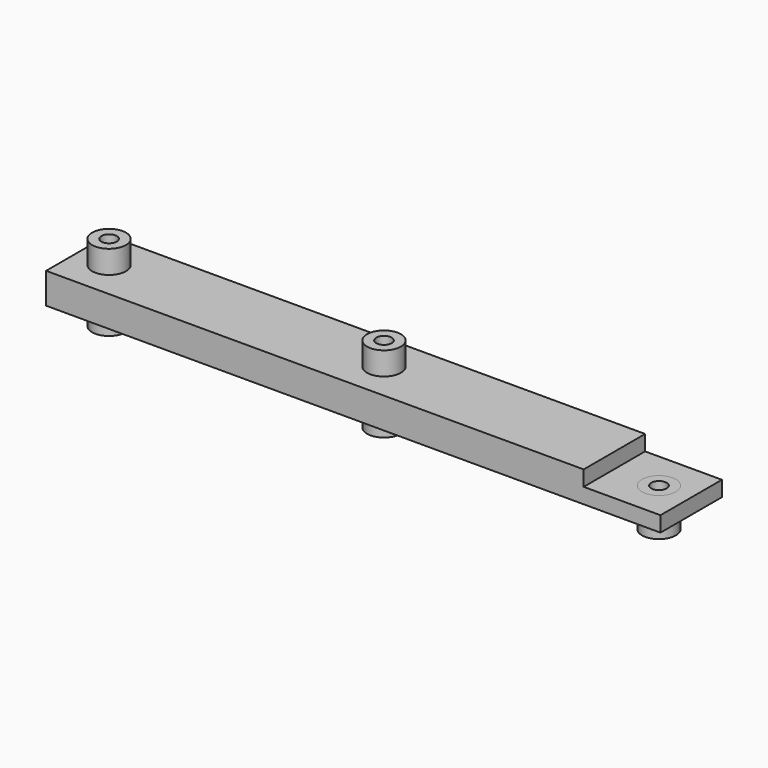
from build123d import *

# Parameters (mm, degrees)
F0_R     = 5.5
F0_R_2   = 2.5
F1_DEPTH = 12.5
F0_W     = 200
F0_H     = 25
F2_DEPTH = 5
F3_W     = 30
F3_H     = 20
F4_DEPTH = 15


with BuildPart() as f1:
    # F0 (on Top) → F1 (new body, symmetric)
    with BuildSketch(Plane.XY):
        with Locations((-89.5, 0)):
            Circle(F0_R)
        with Locations((-89.5, 0)):
            Circle(F0_R_2, mode=Mode.SUBTRACT)
        Circle(F0_R)
        Circle(F0_R_2, mode=Mode.SUBTRACT)
        with Locations((89.5, 0)):
            Circle(F0_R)
        with Locations((89.5, 0)):
            Circle(F0_R_2, mode=Mode.SUBTRACT)
    extrude(amount=F1_DEPTH, both=True)


with BuildPart() as f2:
    # F0 (on Top) → F2 (new body, symmetric)
    with BuildSketch(Plane.XY):
        Rectangle(F0_W, F0_H)
        with Locations((-89.5, 0)):
            Circle(F0_R, mode=Mode.SUBTRACT)
        Circle(F0_R, mode=Mode.SUBTRACT)
        with Locations((89.5, 0)):
            Circle(F0_R, mode=Mode.SUBTRACT)
    extrude(amount=F2_DEPTH, both=True)


with BuildPart() as f4_tool:
    # F3 (on Front) → F4 (new body, symmetric)
    with BuildSketch(Plane.XZ):
        with Locations((90, 10)):
            Rectangle(F3_W, F3_H)
    extrude(amount=F4_DEPTH, both=True)


with BuildPart() as f1_1:
    add(f1.part)

    # F4: cut by f4_tool
    add(f4_tool.part, mode=Mode.SUBTRACT)


with BuildPart() as f2_1:
    add(f2.part)

    # F4: cut by f4_tool
    add(f4_tool.part, mode=Mode.SUBTRACT)


solid = Compound([f1_1.part, f2_1.part])
